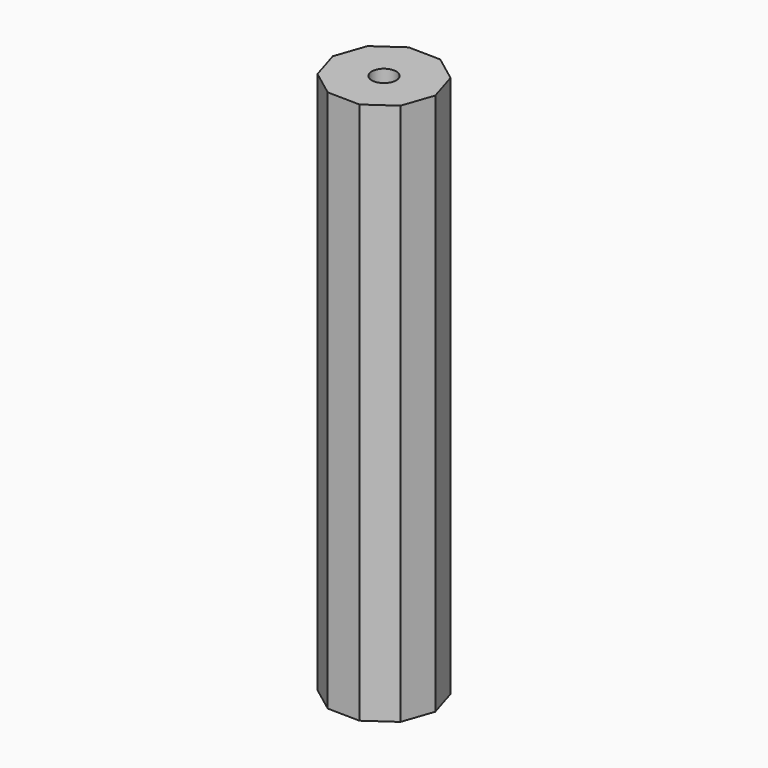
from build123d import *

# Parameters (mm, degrees)
F1_DEPTH = 76.2
F3_D     = 3.429


with BuildPart() as f1:
    # F0 (on Top) → F1 (new body)
    with BuildSketch(Plane.XY):
        Polygon((-7.306218, 0.126358), (-5.985126, -4.192261), (-2.37792, -6.909579), (2.137572, -6.987673), (5.836583, -4.396713), (7.306218, -0.126358), (5.985126, 4.192261), (2.37792, 6.909579), (-2.137572, 6.987673), (-5.836583, 4.396713), align=None)
    extrude(amount=F1_DEPTH)

    # F3 (through all)
    with Locations(Plane(origin=(0, 0, 0), x_dir=(1, 0, 0), z_dir=(0, 0, -1))):
        with Locations((0, 0)):
            Hole(F3_D / 2)


solid = f1.part
